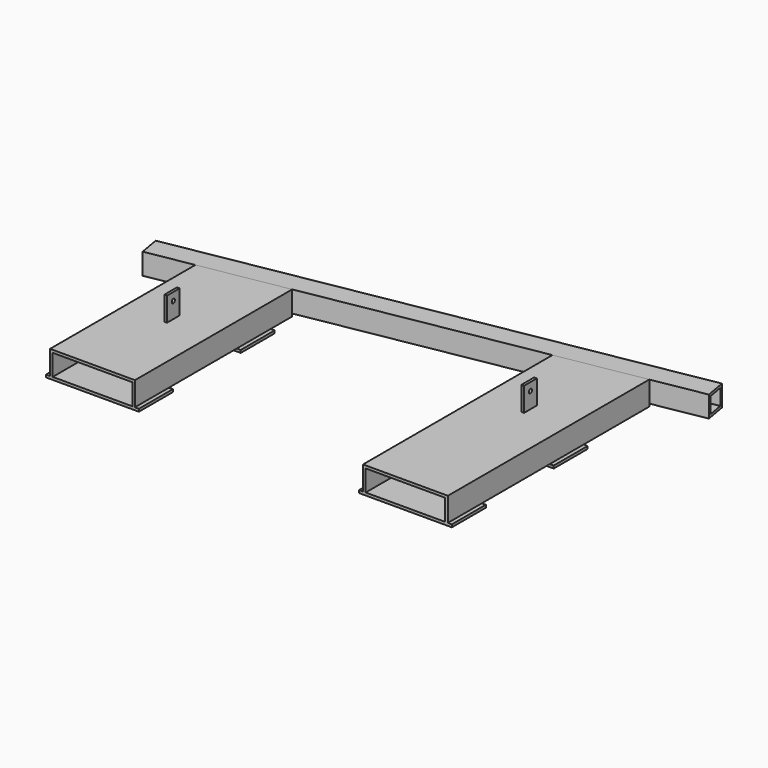
from build123d import *

# Parameters (mm, degrees)
F0_W      = 50.8
F0_H      = 50.8
F0_W_2    = 38.1
F0_H_2    = 38.1
F1_DEPTH  = 1206.5
F4_DEPTH  = 603.25
F5_W      = 222.25
F5_H      = 101.6
F6_DEPTH  = 6.35
F7_W      = 6.35
F7_H      = 38.1
F8_DEPTH  = 57.15
F9_R      = 4.7625
F10_DEPTH = 762
F12_DEPTH = 127
F13_W     = 1206.5
F13_H     = 50.8
F14_DEPTH = 127
F15_W     = 1206.5
F15_H     = 50.8
F16_DEPTH = 50.8
F17_W     = 38.1
F17_H     = 38.1
F18_DEPTH = 1270
F19_W     = 190.5
F19_H     = 6.35
F20_DEPTH = 50.8
F21_R     = 4.7625
F22_DEPTH = 25.4


with BuildPart() as f1:
    # F0 (on Right) → F1 (new body)
    with BuildSketch(Plane.YZ):
        Rectangle(F0_W, F0_H)
        Rectangle(F0_W_2, F0_H_2, mode=Mode.SUBTRACT)
    extrude(amount=-F1_DEPTH)

    # F3 (on offset) → F4 (join)
    with BuildSketch(Plane.XZ.offset(25.4)):
        Polygon((-876.3, 25.4), (-1079.5, 25.4), (-1079.5, -31.75), (-1073.15, -31.75), (-1073.15, 19.05), (-882.65, 19.05), (-882.65, -31.75), (-876.3, -31.75), align=None)
        Polygon((-127, -31.75), (-127, 25.4), (-330.2, 25.4), (-330.2, -31.75), (-323.85, -31.75), (-323.85, 19.05), (-133.35, 19.05), (-133.35, -31.75), align=None)
    extrude(amount=F4_DEPTH)

    # F5 (on face) → F6 (join)
    with BuildSketch(Plane(origin=(0, 0, -31.75), x_dir=(1, 0, 0), z_dir=(0, 0, -1))):
        with Locations((-228.6, 273.05)):
            Rectangle(F5_W, F5_H)
        with Locations((-228.6, 577.85)):
            Rectangle(F5_W, F5_H)
        with Locations((-977.9, 273.05)):
            Rectangle(F5_W, F5_H)
        with Locations((-977.9, 577.85)):
            Rectangle(F5_W, F5_H)
    extrude(amount=F6_DEPTH)

    # F7 (on face) → F8 (join)
    with BuildSketch(Plane.XY.offset(25.4)):
        with Locations((-228.6, -258.5212)):
            Rectangle(F7_W, F7_H)
        with Locations((-977.9, -390.652)):
            Rectangle(F7_W, F7_H)
    extrude(amount=F8_DEPTH)

    # F9 (on face) → F10 (cut)
    with BuildSketch(Plane.YZ.offset(-225.425)):
        with Locations((-258.5212, 63.5)):
            Circle(F9_R)
    extrude(amount=-F10_DEPTH, mode=Mode.SUBTRACT)

    # F11 (on face) → F12 (cut)
    with BuildSketch(Plane.XY.offset(25.4)):
        Polygon((-1079.5, -25.4), (-1079.5, -193.3514491248), (-1079.5, -193.7993196558), (-876.3, -157.9696771759), (-876.3, -25.4), align=None)
        Polygon((-127, -25.4), (-330.2, -25.4), (-330.2, -61.677513011), (-127, -25.847870531), align=None)
        Polygon((-330.2, -25.4), (-876.3, -25.4), (-876.3, -157.9696771759), (-330.2, -61.677513011), align=None)
    extrude(amount=-F12_DEPTH, mode=Mode.SUBTRACT)

    # F13 (on face) → F14 (cut)
    with BuildSketch(Plane.XY.offset(25.4)):
        Polygon((23.5653109848, 38.0831770599), (-1219.6669578552, 38.0831770599), (-1219.6669578552, -25.4), (-1206.5, -25.4), (-1206.5, 25.4), (0, 25.4), (0, -25.4), (23.5653109848, -25.4), align=None)
        with Locations((-603.25, 0)):
            Rectangle(F13_W, F13_H)
    extrude(amount=-F14_DEPTH, mode=Mode.SUBTRACT)

    # F21 (on face) → F22 (cut)
    with BuildSketch(Plane(origin=(-981.075, 0, 0), x_dir=(0, -1, 0), z_dir=(-1, 0, 0))):
        with Locations((390.652, 63.5)):
            Circle(F21_R)
    extrude(amount=-F22_DEPTH, mode=Mode.SUBTRACT)


with BuildPart() as f16:
    # F15 (on face) → F16 (new body)
    with BuildSketch(Plane(origin=(0.5907276117, -3.3501827648, 0), x_dir=(-0.984807753, -0.1736481777, 0), z_dir=(-0.1736481777, 0.984807753, 0))):
        with Locations((605.8090202468, 0)):
            Rectangle(F15_W, F15_H)
    extrude(amount=F16_DEPTH)

    # F17 (on face) → F18 (cut)
    with BuildSketch(Plane(origin=(-2.5201429792, -0.4443692025, 0), x_dir=(-0.1736481777, 0.984807753, 0), z_dir=(0.984807753, 0.1736481777, 0))):
        with Locations((21.9981352659, 0)):
            Rectangle(F17_W, F17_H)
    extrude(amount=-F18_DEPTH, mode=Mode.SUBTRACT)


with BuildPart() as f20:
    # F19 (on face) → F20 (new body, through all)
    with BuildSketch(Plane(origin=(0, 0, -31.75), x_dir=(1, 0, 0), z_dir=(0, 0, -1))):
        with Locations((-977.9, 195.8546433283)):
            Rectangle(F19_W, F19_H)
    extrude(amount=-F20_DEPTH)


with BuildPart() as f20b:
    # F19 (on face) → F20, piece 2 (new body, through all)
    with BuildSketch(Plane(origin=(0, 0, -31.75), x_dir=(1, 0, 0), z_dir=(0, 0, -1))):
        with Locations((-228.6, 195.8546433283)):
            Rectangle(F19_W, F19_H)
    extrude(amount=-F20_DEPTH)


solid = Compound([f1.part, f16.part, f20.part, f20b.part])
